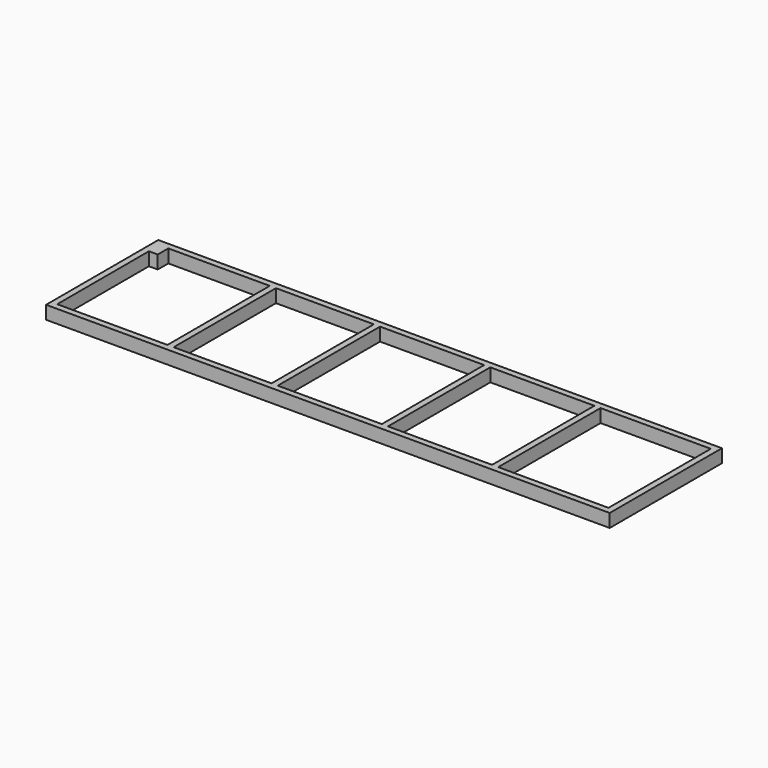
from build123d import *

# Parameters (mm, degrees)
F1_W     = 28
F1_H     = 580
F3_DEPTH = 60
F2_W     = 40
F2_H     = 60
F4_DEPTH = 60


with BuildPart() as f3:
    # F1 (on face) → F3 (new body)
    with BuildSketch(Plane.XY):
        Polygon((1037.666667, 1779.203768), (-1518.333333, 1779.203768), (-1518.333333, 1419.203768), (-1518.333333, 1143.203768), (1037.666667, 1143.203768), align=None)
        Polygon((-1490.333333, 1171.203768), (-1490.333333, 1751.203768), (-990.333333, 1751.203768), (-962.333333, 1751.203768), (-518.333333, 1751.203768), (-490.333333, 1751.203768), (-18.333333, 1751.203768), (9.666667, 1751.203768), (481.666667, 1751.203768), (509.666667, 1751.203768), (1009.666667, 1751.203768), (1009.666667, 1171.203768), (509.666667, 1171.203768), (481.666667, 1171.203768), (9.666667, 1171.203768), (-18.333333, 1171.203768), (-490.333333, 1171.203768), (-518.333333, 1171.203768), (-962.333333, 1171.203768), (-990.333333, 1171.203768), align=None, mode=Mode.SUBTRACT)
        with Locations((-976.333333, 1461.203768)):
            Rectangle(F1_W, F1_H)
        with Locations((-504.333333, 1461.203768)):
            Rectangle(F1_W, F1_H)
        with Locations((-4.333333, 1461.203768)):
            Rectangle(F1_W, F1_H)
        with Locations((495.666667, 1461.203768)):
            Rectangle(F1_W, F1_H)
    extrude(amount=F3_DEPTH)

    # F2 (on face) → F4 (join)
    with BuildSketch(Plane.XY):
        with Locations((-1470.333333, 1721.203768)):
            Rectangle(F2_W, F2_H)
    extrude(amount=F4_DEPTH)


solid = f3.part
